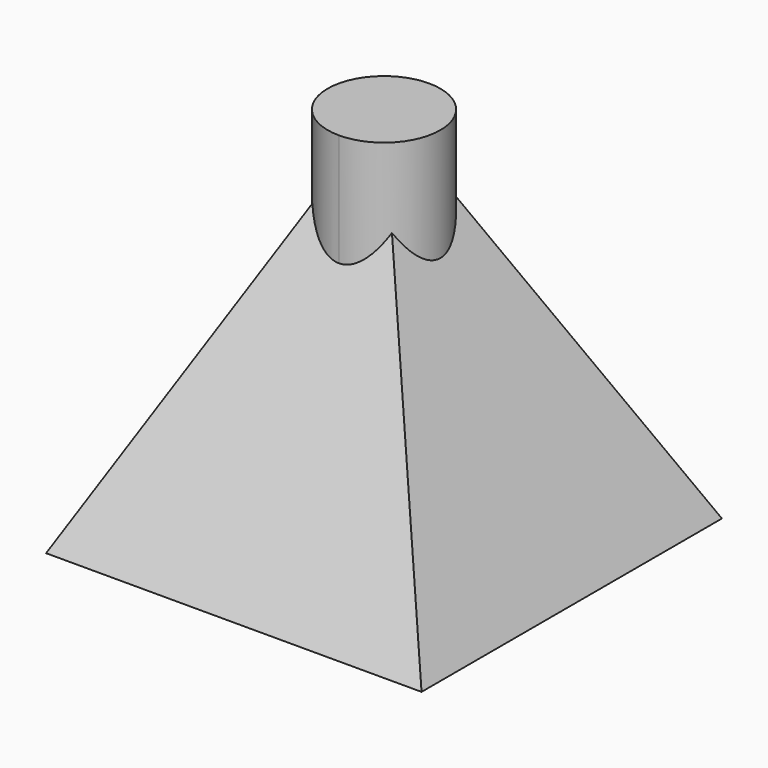
from build123d import *

# Parameters (mm, degrees)
F0_W          = 50
F0_H          = 50
F1_DEPTH      = 50
F4_DEPTH      = 50
F5_DEPTH      = 51
F6_T          = -2.5
F8_ANGLE_BACK = 89.955
F8_ANGLE      = 179.91
F10_DEPTH     = 2
F12_DEPTH     = 13


with BuildPart() as f1:
    # F0 (on Top) → F1 (new body)
    with BuildSketch(Plane.XY):
        Rectangle(F0_W, F0_H)
    extrude(amount=F1_DEPTH)

    # F3 (on face) → F4 (cut, through all)
    with BuildSketch(Plane.YZ.offset(25)):
        Polygon((-25, 1.3375796843), (-25, 0), (0, 50), (-25, 50), align=None)
        Polygon((25, 50), (0, 50), (25, 0), align=None)
    extrude(amount=-F4_DEPTH, mode=Mode.SUBTRACT)

    # F2 (on face) → F5 (cut, up to face)
    with BuildSketch(Plane.XZ.offset(25)):
        Polygon((-25, 50), (-25, 0), (0, 50), align=None)
        Polygon((25, 50), (0, 50), (25, 0), align=None)
    extrude(amount=-F5_DEPTH, mode=Mode.SUBTRACT)

    # F6
    f6_openings = [f1.faces().sort_by_distance(p)[0] for p in [
        (0, 0, 0),
    ]]
    offset(amount=F6_T, openings=f6_openings)

    # F7 (on Front) → F8 (revolve)
    with BuildSketch(Plane.XZ, mode=Mode.PRIVATE) as f8_sk:
        Polygon((-7.5, 50), (-7.5, 35), (0, 50), align=None)
        Polygon((7.5, 50), (0, 50), (7.5, 35), align=None)
    revolve(f8_sk.sketch.rotate(Axis((0, 0, 42.5), (0, 0, -1)), -F8_ANGLE_BACK), axis=Axis((0, 0, 42.5), (0, 0, -1)), revolution_arc=F8_ANGLE)

    # F9 (on face) → F10 (join)
    with BuildSketch(Plane.XY.offset(50)):
        with BuildLine():
            Line((0, 0), (0.0058904856, 7.4999976868))
            ThreePointArc((0.0058904856, 7.4999976868), (0, 7.5), (-0.0058904856, 7.4999976868))
            Line((-0.0058904856, 7.4999976868), (0, 0))
        make_face()
        with BuildLine():
            ThreePointArc((-5.3033008589, 5.3033008589), (-2.8701257427, -6.9290964938), (7.5, 0))
            ThreePointArc((7.5, 0), (6.9290964938, 2.8701257427), (5.3033008589, 5.3033008589))
            ThreePointArc((5.3033008589, 5.3033008589), (2.8728465712, 6.9279688638), (0.0058904856, 7.4999976868))
            Line((0.0058904856, 7.4999976868), (0, 0))
            Line((0, 0), (-0.0058904856, 7.4999976868))
            ThreePointArc((-0.0058904856, 7.4999976868), (-2.8728465712, 6.9279688638), (-5.3033008589, 5.3033008589))
        make_face()
    extrude(amount=-F10_DEPTH)

    # F11 (on face) → F12 (join)
    with BuildSketch(Plane.XY.offset(50)):
        with BuildLine():
            ThreePointArc((-0.0047123885, 5.9999981494), (0, 6), (0.0047123885, 5.9999981494))
            Line((0.0047123885, 5.9999981494), (0.0058904856, 7.4999976868))
            ThreePointArc((0.0058904856, 7.4999976868), (0, 7.5), (-0.0058904856, 7.4999976868))
            Line((-0.0058904856, 7.4999976868), (-0.0047123885, 5.9999981494))
        make_face()
        with BuildLine():
            ThreePointArc((-0.0047123885, -5.9999981494), (-6, 0), (-0.0047123885, 5.9999981494))
            Line((-0.0047123885, 5.9999981494), (-0.0058904856, 7.4999976868))
            ThreePointArc((-0.0058904856, 7.4999976868), (-7.5, 0), (-0.0058904856, -7.4999976868))
            Line((-0.0058904856, -7.4999976868), (-0.0047123885, -5.9999981494))
        make_face()
        with BuildLine():
            Line((0.0058904856, -7.4999976868), (0.0047123885, -5.9999981494))
            ThreePointArc((0.0047123885, -5.9999981494), (0, -6), (-0.0047123885, -5.9999981494))
            Line((-0.0047123885, -5.9999981494), (-0.0058904856, -7.4999976868))
            ThreePointArc((-0.0058904856, -7.4999976868), (0, -7.5), (0.0058904856, -7.4999976868))
        make_face()
        with BuildLine():
            ThreePointArc((0.0047123885, 5.9999981494), (4.244306441, 4.2409742789), (6, 0))
            ThreePointArc((6, 0), (4.244306441, -4.2409742789), (0.0047123885, -5.9999981494))
            Line((0.0047123885, -5.9999981494), (0.0058904856, -7.4999976868))
            ThreePointArc((0.0058904856, -7.4999976868), (5.3053830513, -5.3012178487), (7.5, 0))
            ThreePointArc((7.5, 0), (5.3053830513, 5.3012178487), (0.0058904856, 7.4999976868))
            Line((0.0058904856, 7.4999976868), (0.0047123885, 5.9999981494))
        make_face()
    extrude(amount=-F12_DEPTH)


solid = f1.part
